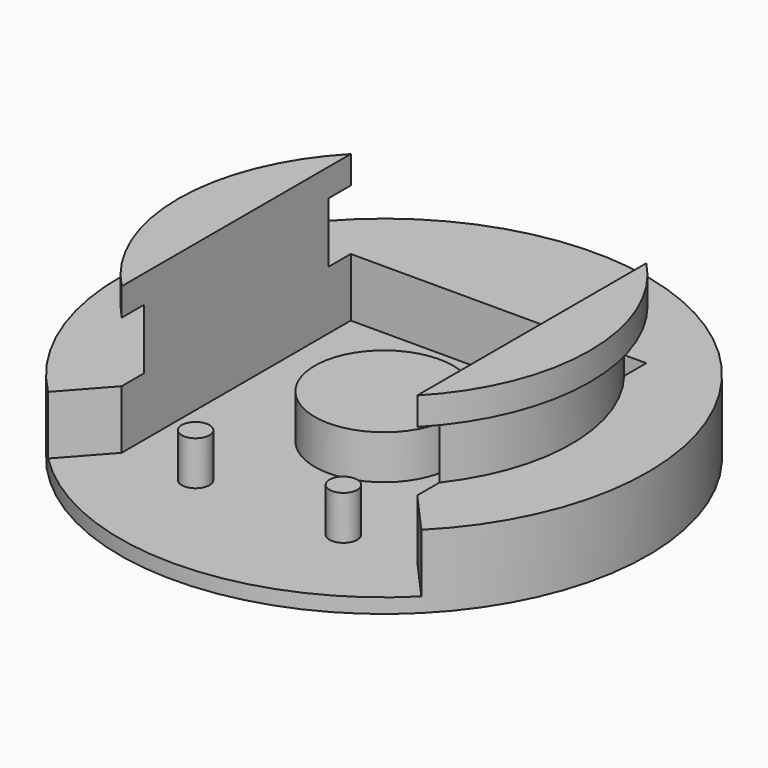
from build123d import *

# Parameters (mm, degrees)
F2_DEPTH = 31.75
F3_DEPTH = 12.7
F1_R     = 15
F4_DEPTH = 9.525
F1_R_2   = 3
F5_DEPTH = 3.175
F6_W     = 6
F6_H     = 13.05


with BuildPart() as f2:
    # F1 (on Top) → F2 (new body)
    with BuildSketch(Plane.XY):
        with BuildLine():
            ThreePointArc((-32, 31), (-44.5533388199, 0), (-32, -31))
            Line((-32, -31), (-32, 31))
        make_face()
    extrude(amount=F2_DEPTH)



with BuildPart() as f2b:
    # F1 (on Top) → F2, piece 2 (new body)
    with BuildSketch(Plane.XY):
        with BuildLine():
            Line((32, 31), (32, -31))
            ThreePointArc((32, -31), (44.5533388199, 0), (32, 31))
        make_face()
    extrude(amount=F2_DEPTH)


with BuildPart() as f3:
    # F1 (on Top) → F3 (new body)
    with BuildSketch(Plane.XY):
        with BuildLine():
            ThreePointArc((40.4111525448, -40.4111525448), (52.799715283, -21.8703581597), (57.15, 0))
            ThreePointArc((57.15, 0), (-21.8703581597, 52.799715283), (-40.4111525448, -40.4111525448))
            Line((-40.4111525448, -40.4111525448), (-32, -31))
            ThreePointArc((-32, -31), (-44.5533388199, 0), (-32, 31))
            ThreePointArc((-32, 31), (0, 44.5533388199), (32, 31))
            ThreePointArc((32, 31), (44.5533388199, 0), (32, -31))
            Line((32, -31), (40.4111525448, -40.4111525448))
        make_face()
        with BuildLine():
            ThreePointArc((32, 31), (0, 44.5533388199), (-32, 31))
            Line((-32, 31), (32, 31))
        make_face()
    extrude(amount=F3_DEPTH)


with BuildPart() as f4:
    # F1 (on Top) → F4 (new body)
    with BuildSketch(Plane.XY):
        Circle(F1_R)
    extrude(amount=F4_DEPTH)


with BuildPart() as f4b:
    # F1 (on Top) → F4, piece 2 (new body)
    with BuildSketch(Plane.XY):
        with Locations((16, -31)):
            Circle(F1_R_2)
    extrude(amount=F4_DEPTH)


with BuildPart() as f4c:
    # F1 (on Top) → F4, piece 3 (new body)
    with BuildSketch(Plane.XY):
        with Locations((-16, -31)):
            Circle(F1_R_2)
    extrude(amount=F4_DEPTH)


with BuildPart() as f2_1:
    add(f2.part)

    add(f2b.part)  # F5 merges F2b

    add(f3.part)  # F5 merges F3

    add(f4.part)  # F5 merges F4

    add(f4b.part)  # F5 merges F4b

    add(f4c.part)  # F5 merges F4c
    # F1 (on Top) → F5 (join)
    with BuildSketch(Plane.XY):
        with BuildLine():
            Line((-32, -31), (-40.4111525448, -40.4111525448))
            ThreePointArc((-40.4111525448, -40.4111525448), (0, -57.15), (40.4111525448, -40.4111525448))
            Line((40.4111525448, -40.4111525448), (32, -31))
            Line((32, -31), (32, 31))
            Line((32, 31), (-32, 31))
            Line((-32, 31), (-32, -31))
        make_face()
        with Locations((-16, -31)):
            Circle(F1_R_2, mode=Mode.SUBTRACT)
        with Locations((16, -31)):
            Circle(F1_R_2, mode=Mode.SUBTRACT)
        Circle(F1_R, mode=Mode.SUBTRACT)
        with BuildLine():
            ThreePointArc((40.4111525448, -40.4111525448), (52.799715283, -21.8703581597), (57.15, 0))
            ThreePointArc((57.15, 0), (-21.8703581597, 52.799715283), (-40.4111525448, -40.4111525448))
            Line((-40.4111525448, -40.4111525448), (-32, -31))
            ThreePointArc((-32, -31), (-44.5533388199, 0), (-32, 31))
            ThreePointArc((-32, 31), (0, 44.5533388199), (32, 31))
            ThreePointArc((32, 31), (44.5533388199, 0), (32, -31))
            Line((32, -31), (40.4111525448, -40.4111525448))
        make_face()
        with BuildLine():
            Line((32, 31), (32, -31))
            ThreePointArc((32, -31), (44.5533388199, 0), (32, 31))
        make_face()
        with BuildLine():
            ThreePointArc((32, 31), (0, 44.5533388199), (-32, 31))
            Line((-32, 31), (32, 31))
        make_face()
        with BuildLine():
            ThreePointArc((-32, 31), (-44.5533388199, 0), (-32, -31))
            Line((-32, -31), (-32, 31))
        make_face()
        with Locations((-16, -31)):
            Circle(F1_R_2)
        with Locations((16, -31)):
            Circle(F1_R_2)
        Circle(F1_R)
    extrude(amount=-F5_DEPTH)

    # F6 (on face) → F7 (revolve, cut)
    with BuildSketch(Plane.YZ.offset(-32)):
        with Locations((-28, 19.225)):
            Rectangle(F6_W, F6_H)
    revolve(axis=Axis((0, 0, 0), (0, 0, -1)), mode=Mode.SUBTRACT)


solid = f2_1.part
